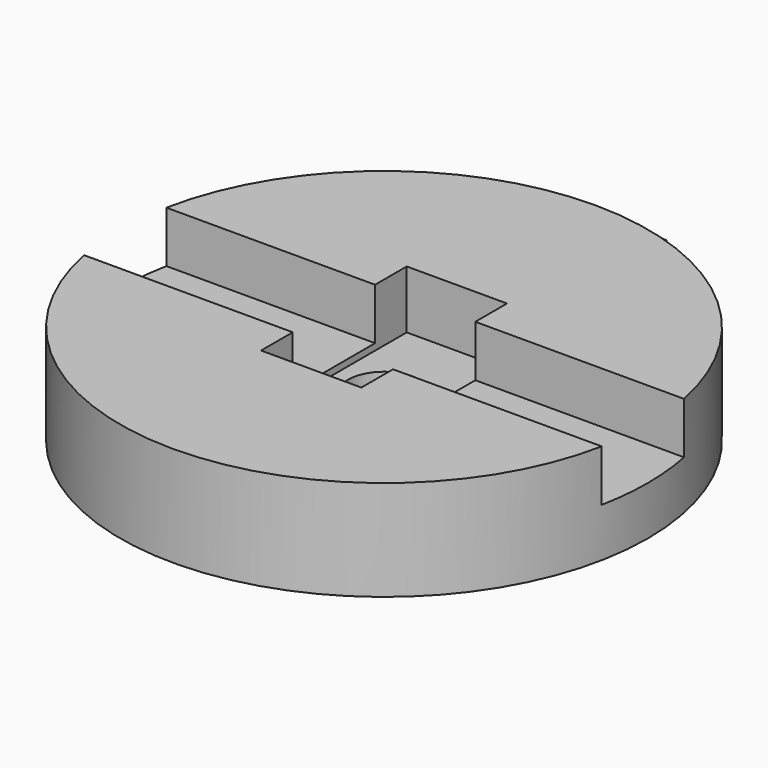
from build123d import *

# Parameters (mm, degrees)
F0_R      = 20
F1_DEPTH  = 7.6
F3_DEPTH  = 3.9
F4_W      = 7.6
F4_H      = 3
F5_W      = 7.6
F5_H      = 3
F6_DEPTH  = 4.4
F7_W      = 7.6
F7_H      = 7.8
F8_DEPTH  = 0.5
F11_DEPTH = 3.55
F12_R     = 2.725
F13_DEPTH = 7.6


with BuildPart() as f1:
    # F0 (on Top) → F1 (new body)
    with BuildSketch(Plane.XY):
        Circle(F0_R)
    extrude(amount=-F1_DEPTH)

    # F2 (on face) → F3 (cut)
    with BuildSketch(Plane.XY):
        with BuildLine():
            Line((19.6160648449, 3.9), (-19.6160648449, 3.9))
            ThreePointArc((-19.6160648449, 3.9), (-20, 0), (-19.6160648449, -3.9))
            Line((-19.6160648449, -3.9), (19.6160648449, -3.9))
            ThreePointArc((19.6160648449, -3.9), (19.903784777, -1.9594263321), (20, 0))
            ThreePointArc((20, 0), (19.903784777, 1.9594263321), (19.6160648449, 3.9))
        make_face()
    extrude(amount=-F3_DEPTH, mode=Mode.SUBTRACT)

    # F4 (on face) + F5 (on face) → F6 (cut)
    with BuildSketch(Plane.XY):
        with Locations((0, -5.4)):
            Rectangle(F4_W, F4_H)
    with BuildSketch(Plane.XY):
        with Locations((0, 5.4)):
            Rectangle(F5_W, F5_H)
    extrude(amount=-F6_DEPTH, mode=Mode.SUBTRACT)

    # F7 (on face) → F8 (cut)
    with BuildSketch(Plane.XY.offset(-3.9)):
        Rectangle(F7_W, F7_H)
    extrude(amount=-F8_DEPTH, mode=Mode.SUBTRACT)

    # F10 (on offset) → F11 (join)
    with BuildSketch(Plane.XY.offset(-7.6)):
        Polygon((1.225, 19.8352728039), (1.225, 19.9624491233), (1.225, 25.2124491233), (-6.825, 25.2124491233), (-6.825, 21.2124491233), (-4.375, 21.2124491233), (-4.375, 22.4624491233), (-1.225, 22.4624491233), (-1.225, 19.9624491233), (-1.225, 19.7902154177), align=None)
    extrude(amount=F11_DEPTH)

    # F12 (on face) → F13 (cut)
    with BuildSketch(Plane(origin=(0, 0, -7.6), x_dir=(1, 0, 0), z_dir=(0, 0, -1))):
        Circle(F12_R)
    extrude(amount=-F13_DEPTH, mode=Mode.SUBTRACT)


solid = f1.part
